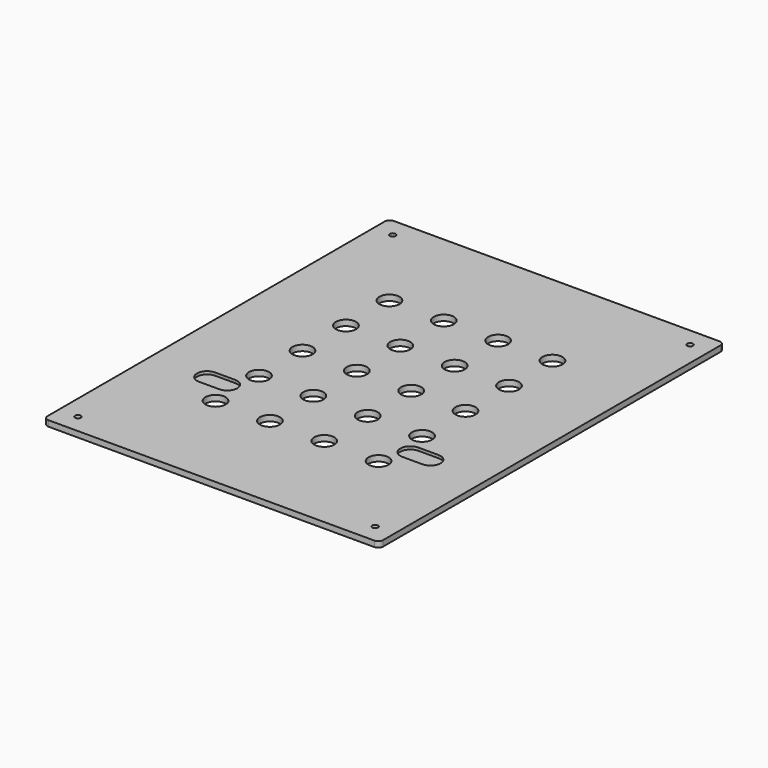
from build123d import *

# Parameters (mm, degrees)
F0_R     = 3
F1_DEPTH = 6
F2_R     = 10.5
F3_DEPTH = 25
F5_DEPTH = 3


with BuildPart() as f1:
    # F0 (on Top) → F1 (new body)
    with BuildSketch(Plane.XY):
        with BuildLine():
            Line((170, 225), (-170, 225))
            ThreePointArc((-170, 225), (-173.535534, 223.535534), (-175, 220))
            Line((-175, 220), (-175, -220))
            ThreePointArc((-175, -220), (-173.535534, -223.535534), (-170, -225))
            Line((-170, -225), (170, -225))
            ThreePointArc((170, -225), (173.535534, -223.535534), (175, -220))
            Line((175, -220), (175, 220))
            ThreePointArc((175, 220), (173.535534, 223.535534), (170, 225))
        make_face()
        with Locations((-155, -205.25)):
            Circle(F0_R, mode=Mode.SUBTRACT)
        with Locations((155, -205.25)):
            Circle(F0_R, mode=Mode.SUBTRACT)
        with Locations((-155, 205.25)):
            Circle(F0_R, mode=Mode.SUBTRACT)
        with Locations((155, 205.25)):
            Circle(F0_R, mode=Mode.SUBTRACT)
    extrude(amount=F1_DEPTH)

    # F2 (on face) → F3 (cut)
    with BuildSketch(Plane.XY.offset(6)):
        with Locations((-85, 113.333333)):
            Circle(F2_R)
        with Locations((-85, 56.666667)):
            Circle(F2_R)
        with Locations((-85, 0)):
            Circle(F2_R)
        with Locations((-85, -56.666667)):
            Circle(F2_R)
        with Locations((-85, -113.333333)):
            Circle(F2_R)
        with Locations((-28.333333, -113.333333)):
            Circle(F2_R)
        with Locations((-28.333333, -56.666667)):
            Circle(F2_R)
        with Locations((-28.333333, 0)):
            Circle(F2_R)
        with Locations((-28.333333, 56.666667)):
            Circle(F2_R)
        with Locations((-28.333333, 113.333333)):
            Circle(F2_R)
        with Locations((28.333333, 113.333333)):
            Circle(F2_R)
        with Locations((28.333333, 56.666667)):
            Circle(F2_R)
        with Locations((28.333333, 0)):
            Circle(F2_R)
        with Locations((28.333333, -56.666667)):
            Circle(F2_R)
        with Locations((28.333333, -113.333333)):
            Circle(F2_R)
        with Locations((85, -113.333333)):
            Circle(F2_R)
        with Locations((85, -56.666667)):
            Circle(F2_R)
        with Locations((85, 0)):
            Circle(F2_R)
        with Locations((85, 56.666667)):
            Circle(F2_R)
        with Locations((85, 113.333333)):
            Circle(F2_R)
    extrude(amount=-F3_DEPTH, mode=Mode.SUBTRACT)

    # F4 (on face) → F5 (cut)
    with BuildSketch(Plane.XY.offset(6)):
        with BuildLine():
            Line((-95.5, -74.5), (-116.5, -74.5))
            ThreePointArc((-116.5, -74.5), (-127, -85), (-116.5, -95.5))
            Line((-116.5, -95.5), (-95.5, -95.5))
            ThreePointArc((-95.5, -95.5), (-85, -85), (-95.5, -74.5))
        make_face()
        with BuildLine():
            ThreePointArc((116.5, -95.5), (127, -85), (116.5, -74.5))
            Line((116.5, -74.5), (95.5, -74.5))
            ThreePointArc((95.5, -74.5), (85, -85), (95.5, -95.5))
            Line((95.5, -95.5), (116.5, -95.5))
        make_face()
    extrude(amount=-F5_DEPTH, mode=Mode.SUBTRACT)


solid = f1.part
